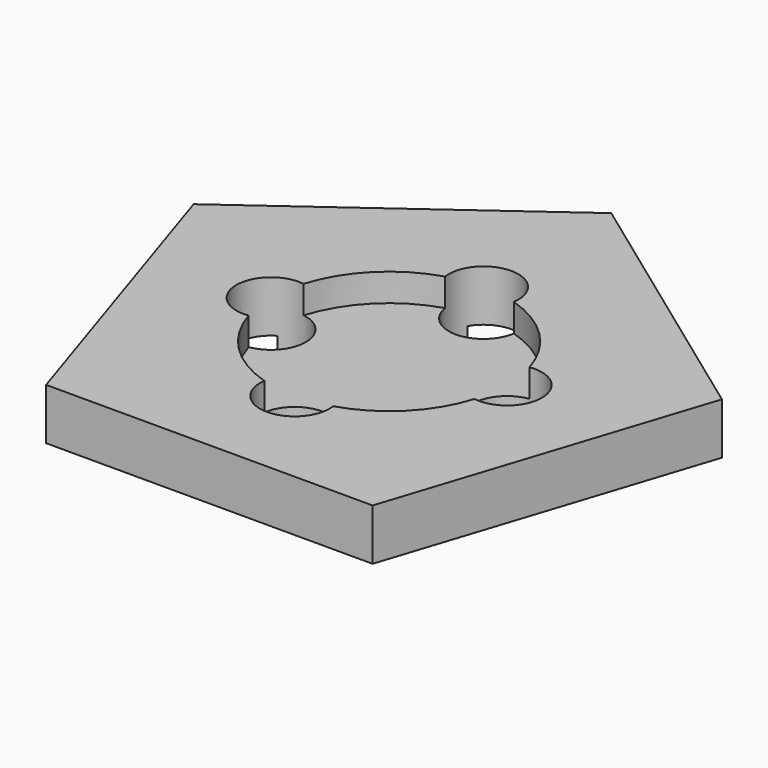
from build123d import *

# Parameters (mm, degrees)
SKETCH_R           = 10
SKETCH_W           = 14.142136
SKETCH_H           = 14.142136
PAD_DEPTH          = 1.85
SKETCH001_W        = 40
SKETCH001_H        = 320
POCKET_DEPTH       = 100
POCKET_DEPTH_BACK  = 100
POCKET002_START    = 0.85
SKETCH003_R        = 4.25
POCKET002_DEPTH    = 99.15
SKETCH004_R        = 5
PAD001_DEPTH       = 0.5
SKETCH002_R        = 1.25
POCKET001_DEPTH    = 50
POLARPATTERN_COUNT = 4


with BuildPart() as part:
    # Sketch → Pad (new body)
    with BuildSketch(Plane.XY):
        with Locations((0, 40)):
            Circle(SKETCH_R)
        Polygon((0, 90), (-8.660254, 75), (8.660254, 75), align=None)
        with Locations((0, 120)):
            Rectangle(SKETCH_W, SKETCH_H)
        Polygon((0, 10), (-9.510565, 3.09017), (-5.877853, -8.09017), (5.877853, -8.09017), (9.510565, 3.09017), align=None)
        Polygon((-8.660254, 205), (-8.660254, 195), (0, 190), (8.660254, 195), (8.660254, 205), (0, 210), align=None)
    extrude(amount=PAD_DEPTH)

    # Sketch001 → Pocket (cut, two sides)
    with BuildSketch(Plane.XY) as pocket_sk:
        with Locations((0, 180.01)):
            Rectangle(SKETCH001_W, SKETCH001_H)
    extrude(amount=POCKET_DEPTH, mode=Mode.SUBTRACT)
    extrude(pocket_sk.sketch, amount=-POCKET_DEPTH_BACK, mode=Mode.SUBTRACT)

    # Sketch003 → Pocket002 (cut)
    with BuildSketch(Plane.XY.offset(POCKET002_START)):
        Circle(SKETCH003_R)
    extrude(amount=POCKET002_DEPTH, mode=Mode.SUBTRACT)

    # Sketch004 → Pad001 (join)
    with BuildSketch(Plane.XY):
        Circle(SKETCH004_R)
    extrude(amount=-PAD001_DEPTH)

    # Sketch002 → Pocket001 (cut, symmetric)
    with BuildSketch(Plane.XY):
        with Locations((-4.25, 0)):
            Circle(SKETCH002_R)
    pocket001 = extrude(amount=POCKET001_DEPTH, both=True, mode=Mode.SUBTRACT)

    # PolarPattern: Pocket001 ×4 about axis
    polarpattern_axis = Axis((0, 0, 0), (0, 0, 1))
    for i in range(1, POLARPATTERN_COUNT):
        add(pocket001.rotate(polarpattern_axis, i * 360 / POLARPATTERN_COUNT), mode=Mode.SUBTRACT)


solid = part.part
